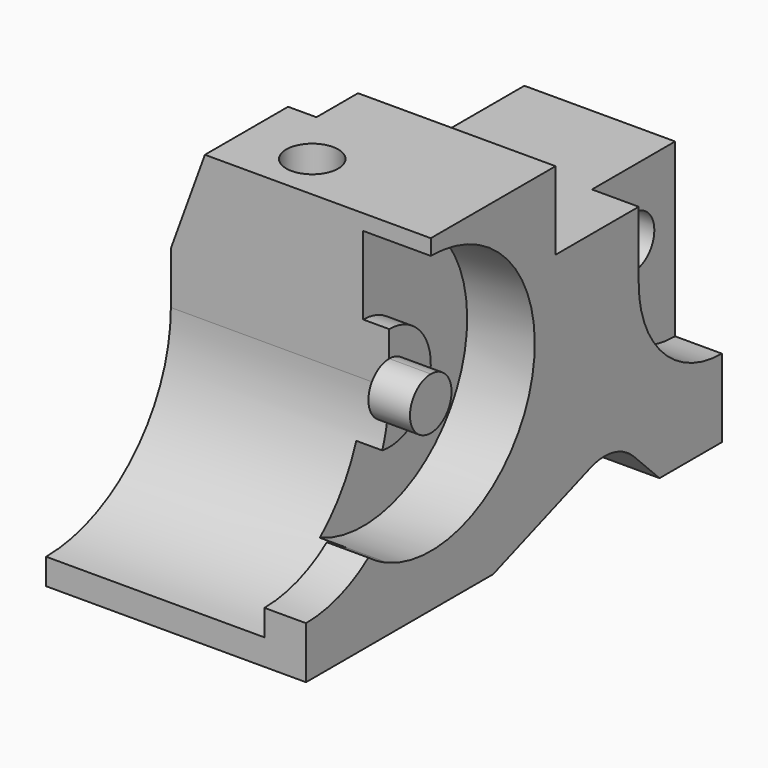
from build123d import *

# Parameters (mm, degrees)
F2_DEPTH  = 50
F4_DEPTH  = 13
F5_DEPTH  = 8
F6_DEPTH  = 8
F3_R      = 5
F7_DEPTH  = 9
F8_DEPTH  = 50.001
F9_DEPTH  = 8
F11_DEPTH = 70.001
F12_W     = 5.4485357832
F12_H     = 10
F12_R     = 5
F13_DEPTH = 63.001
F14_R     = 10


with BuildPart() as f2:
    # F1 (on Right) → F2 (new body)
    with BuildSketch(Plane.YZ):
        with BuildLine():
            Line((0, 5), (0, 0))
            Line((0, 0), (45, 0))
            Line((45, 0), (74.3261531631, 10.6738468369))
            Line((74.3261531631, 10.6738468369), (85, 0))
            Line((85, 0), (100, 0))
            Line((100, 0), (100, 48))
            Line((100, 48), (60, 48))
            Line((60, 48), (60, 63))
            Line((60, 63), (30, 63))
            Line((30, 63), (30, 35))
            ThreePointArc((30, 35), (21.2132034356, 13.7867965644), (0, 5))
        make_face()
    extrude(amount=-F2_DEPTH)

    # F3 (on face) → F4 (cut)
    with BuildSketch(Plane.YZ):
        with BuildLine():
            ThreePointArc((28.3333333333, 25.1398670282), (24.8070046671, 18.1295370708), (19.5833333333, 12.2735164278))
            ThreePointArc((19.5833333333, 12.2735164278), (54.4250085906, 29.669056805), (30, 60))
            Line((30, 60), (30, 45))
            ThreePointArc((30, 45), (39.9649718945, 34.1637373972), (28.3333333333, 25.1398670282))
        make_face()
    extrude(amount=-F4_DEPTH, mode=Mode.SUBTRACT)

    # F5 (cut): a face of the model
    f5_faces = [f2.faces().sort_by_distance(p)[0] for p in [
        (0, 34.0815976486, 34.7438274086),
    ]]
    extrude(f5_faces, amount=-F5_DEPTH, mode=Mode.SUBTRACT)

    # F3 (on face) → F6 (join, through all)
    with BuildSketch(Plane.YZ):
        with BuildLine():
            ThreePointArc((30, 35), (29.8956518578, 32.5), (29.5833333333, 30.017391357))
            ThreePointArc((29.5833333333, 30.017391357), (33.3850160019, 31.320099639), (35, 35))
            ThreePointArc((35, 35), (33.5355339059, 38.5355339059), (30, 40))
            Line((30, 40), (30, 35))
        make_face()
        with BuildLine():
            ThreePointArc((30, 40), (25.0043497313, 35.2085147299), (29.5833333333, 30.017391357))
            ThreePointArc((29.5833333333, 30.017391357), (29.8956518578, 32.5), (30, 35))
            Line((30, 35), (30, 40))
        make_face()
    extrude(amount=-F6_DEPTH)

    # F3 (on face) → F7 (cut)
    with BuildSketch(Plane.YZ):
        with BuildLine():
            Line((100, 48), (80, 48))
            Line((80, 48), (80, 35))
            ThreePointArc((80, 35), (85.8578643763, 20.8578643763), (100, 15))
            Line((100, 15), (100, 48))
        make_face()
        with Locations((90, 35)):
            Circle(F3_R, mode=Mode.SUBTRACT)
        with Locations((90, 35)):
            Circle(F3_R)
    extrude(amount=-F7_DEPTH, mode=Mode.SUBTRACT)

    # F3 (on face) → F8 (cut, through all)
    with BuildSketch(Plane.YZ):
        with Locations((90, 35)):
            Circle(F3_R)
    extrude(amount=-F8_DEPTH, mode=Mode.SUBTRACT)

    # F3 (on face) → F9 (join)
    with BuildSketch(Plane.YZ):
        with BuildLine():
            ThreePointArc((0, 5), (10.4452260108, 6.8771044595), (19.5833333333, 12.2735164278))
            ThreePointArc((19.5833333333, 12.2735164278), (17.2187573265, 13.5141945526), (15, 15))
            ThreePointArc((15, 15), (7.9056941504, 11.2829175487), (0, 10))
            Line((0, 10), (0, 5))
        make_face()
    extrude(amount=-F9_DEPTH)

    # F10 (on face) → F11 (cut, through all)
    with BuildSketch(Plane.XZ.offset(-30)):
        Polygon((-50, 63), (-50, 45), (-43.4485357832, 63), align=None)
    extrude(amount=-F11_DEPTH, mode=Mode.SUBTRACT)

    # F12 (on face) → F13 (cut, through all)
    with BuildSketch(Plane.XY.offset(63)):
        Polygon((-38, 100), (-50, 100), (-50, 50), (-43.4485357832, 50), (-43.4485357832, 60), (-38, 60), align=None)
        with Locations((-40.7242678916, 55)):
            Rectangle(F12_W, F12_H)
        with Locations((-30, 39)):
            Circle(F12_R)
    extrude(amount=-F13_DEPTH, mode=Mode.SUBTRACT)

    # F14
    f14_edges = [f2.edges().sort_by_distance(p)[0] for p in [
        (-19, 74.326153, 10.673847),
    ]]
    fillet(f14_edges, radius=F14_R)


solid = f2.part
